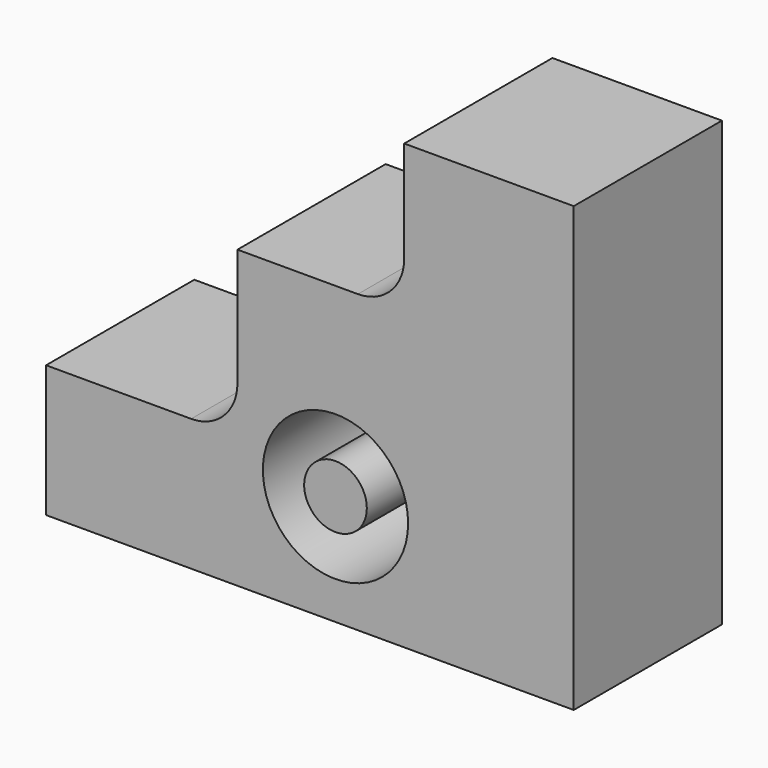
from build123d import *

# Parameters (mm, degrees)
F1_DEPTH = 25.4
F2_R     = 9.95833
F2_R_2   = 4.294163
F3_DEPTH = 45.6


with BuildPart() as f1:
    # F0 (on Front) → F1 (new body)
    with BuildSketch(Plane.XZ):
        with BuildLine():
            Line((-54.475233, 18.087925), (-54.475233, 0))
            Line((-54.475233, 0), (17.878575, 0))
            Line((17.878575, 0), (17.878575, 58.950953))
            Line((17.878575, 58.950953), (17.878575, 60.825408))
            Line((17.878575, 60.825408), (-5.364616, 60.825408))
            Line((-5.364616, 60.825408), (-5.364616, 46.931338))
            ThreePointArc((-5.364616, 46.931338), (-7.224488, 42.44121), (-11.714616, 40.581338))
            Line((-11.714616, 40.581338), (-27.483137, 40.581338))
            Line((-27.483137, 40.581338), (-28.232917, 40.581338))
            Line((-28.232917, 40.581338), (-28.232917, 24.437925))
            ThreePointArc((-28.232917, 24.437925), (-30.092789, 19.947797), (-34.582917, 18.087925))
            Line((-34.582917, 18.087925), (-54.475233, 18.087925))
        make_face()
    extrude(amount=F1_DEPTH)

    # F2 (on face) → F3 (cut)
    with BuildSketch(Plane.XZ.offset(25.4)):
        with Locations((-14.789276, 15.139529)):
            Circle(F2_R)
        with Locations((-14.789276, 15.139529)):
            Circle(F2_R_2, mode=Mode.SUBTRACT)
    extrude(amount=-F3_DEPTH, mode=Mode.SUBTRACT)


solid = f1.part
